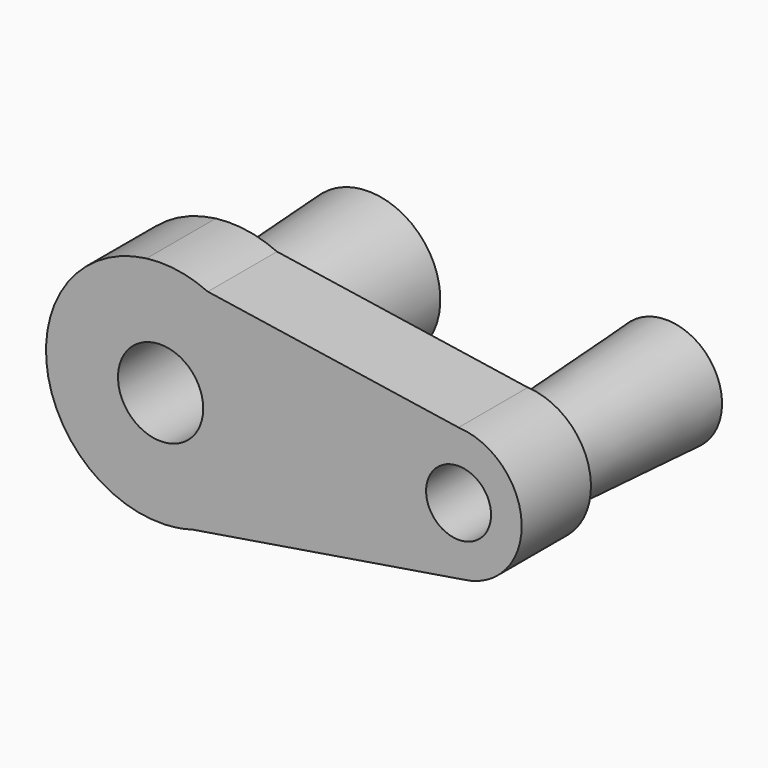
from build123d import *

# Parameters (mm, degrees)
F1_DEPTH = 25.4
F2_R     = 12.5025972882
F2_R_2   = 9.5302098869
F3_DEPTH = 25.4
F4_R     = 18.4484628598
F4_R_2   = 13.6784714259
F5_DEPTH = 50.8
F5_TAPER = -3
F6_DEPTH = 50.8
F7_DEPTH = 50.8


with BuildPart() as f1:
    # F0 (on Front) → F1 (new body)
    with BuildSketch(Plane.XZ):
        with BuildLine():
            ThreePointArc((45.2668793955, -19.3830094207), (57.6364376691, -13.0022082879), (62.6026409088, 0))
            ThreePointArc((62.6026409088, 0), (57.2322577304, 13.4404517854), (44.0785706073, 19.4792658036))
            ThreePointArc((44.0785706073, 19.4792658036), (23.6039660348, -0.5961004671), (45.2668793955, -19.3830094207))
        make_face()
        with BuildLine():
            ThreePointArc((45.2668793955, -19.3830094207), (23.6039660348, -0.5961004671), (44.0785706073, 19.4792658036))
            Line((44.0785706073, 19.4792658036), (-29.5030757231, 30.6489142731))
            ThreePointArc((-29.5030757231, 30.6489142731), (-15.0912426316, 18.2411567602), (-9.7141077437, 0))
            ThreePointArc((-9.7141077437, 0), (-16.4079870718, -20.1347082672), (-33.8247665625, -32.2537135744))
            Line((-33.8247665625, -32.2537135744), (45.2668793955, -19.3830094207))
        make_face()
        with BuildLine():
            Line((-47.4639300675, 33.3753608701), (-29.5030757231, 30.6489142731))
            ThreePointArc((-29.5030757231, 30.6489142731), (-38.2959099688, 33.2479326289), (-47.4639300675, 33.3753608701))
        make_face()
        with BuildLine():
            ThreePointArc((-9.7141077437, 0), (-15.0912426316, 18.2411567602), (-29.5030757231, 30.6489142731))
            Line((-29.5030757231, 30.6489142731), (-47.4639300675, 33.3753608701))
            ThreePointArc((-47.4639300675, 33.3753608701), (-76.8661552323, -2.6627929941), (-42.1434023047, -33.6074178539))
            Line((-42.1434023047, -33.6074178539), (-33.8247665625, -32.2537135744))
            ThreePointArc((-33.8247665625, -32.2537135744), (-16.4079870718, -20.1347082672), (-9.7141077437, 0))
        make_face()
        with BuildLine():
            ThreePointArc((-42.1434023047, -33.6074178539), (-37.9415084281, -33.1921991348), (-33.8247665625, -32.2537135744))
            Line((-33.8247665625, -32.2537135744), (-42.1434023047, -33.6074178539))
        make_face()
    extrude(amount=F1_DEPTH)

    # F2 (on face) → F3 (cut)
    with BuildSketch(Plane.XZ.offset(25.4)):
        with Locations((-43.3429256082, 0)):
            Circle(F2_R)
        with Locations((44.0785706073, 0)):
            Circle(F2_R_2)
    extrude(amount=-F3_DEPTH, mode=Mode.SUBTRACT)

    # F4 (on face) → F5 (join)
    with BuildSketch(Plane(origin=(0, 0, 0), x_dir=(-1, 0, 0), z_dir=(0, 1, 0))):
        with Locations((43.3429256082, 0)):
            Circle(F4_R)
        with Locations((-44.0785706073, 0)):
            Circle(F4_R_2)
    extrude(amount=F5_DEPTH, taper=F5_TAPER)

    # F6 (cut): a face of the model
    f6_faces = [f1.faces().sort_by_distance(p)[0] for p in [
        (-43.3429256082, 0, 0),
    ]]
    extrude(f6_faces, amount=-F6_DEPTH, mode=Mode.SUBTRACT)

    # F7 (cut): a face of the model
    f7_faces = [f1.faces().sort_by_distance(p)[0] for p in [
        (44.0785706073, 0, 0),
    ]]
    extrude(f7_faces, amount=-F7_DEPTH, mode=Mode.SUBTRACT)


solid = f1.part
